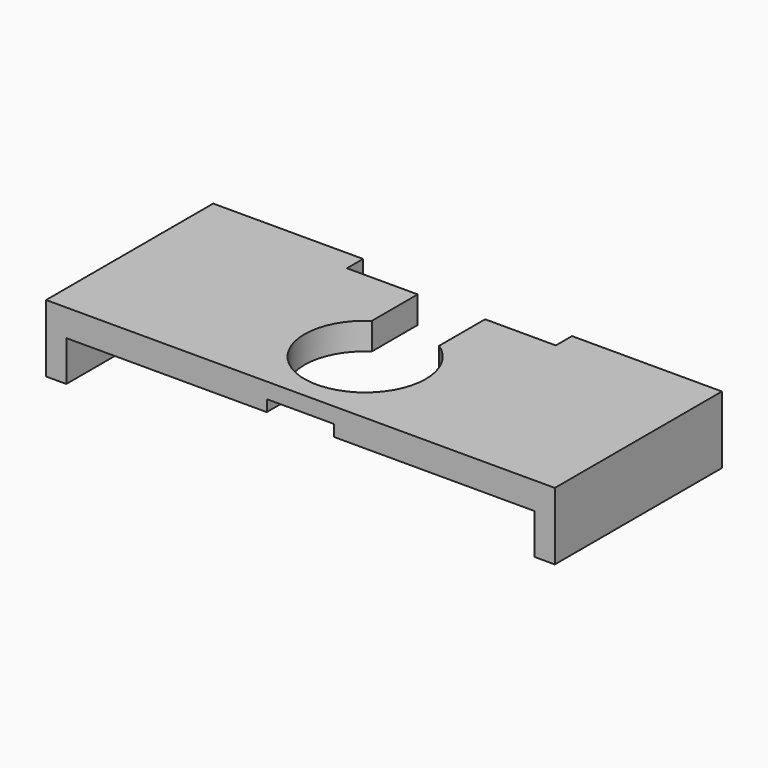
from build123d import *

# Parameters (mm, degrees)
F1_DEPTH = 31
F3_DEPTH = 4.001


with BuildPart() as f1:
    # F0 (on Front) → F1 (new body)
    with BuildSketch(Plane.XZ):
        Polygon((37.75, 0), (-37.75, 0), (-37.75, -10), (-34.75, -10), (-34.75, -4), (-5, -4), (-5, -2.3), (5, -2.3), (5, -4), (34.75, -4), (34.75, -10), (37.75, -10), align=None)
    extrude(amount=F1_DEPTH)

    # F2 (on face) → F3 (cut, through all)
    with BuildSketch(Plane.XY):
        with BuildLine():
            Line((15.5, 0), (-15.5, 0))
            Line((-15.5, 0), (-15.5, -3))
            Line((-15.5, -3), (-5, -3))
            Line((-5, -3), (-5, -11.5166852265))
            ThreePointArc((-5, -11.5166852265), (0, -28), (5, -11.5166852265))
            Line((5, -11.5166852265), (5, -3))
            Line((5, -3), (15.5, -3))
            Line((15.5, -3), (15.5, 0))
        make_face()
    extrude(amount=-F3_DEPTH, mode=Mode.SUBTRACT)


solid = f1.part
